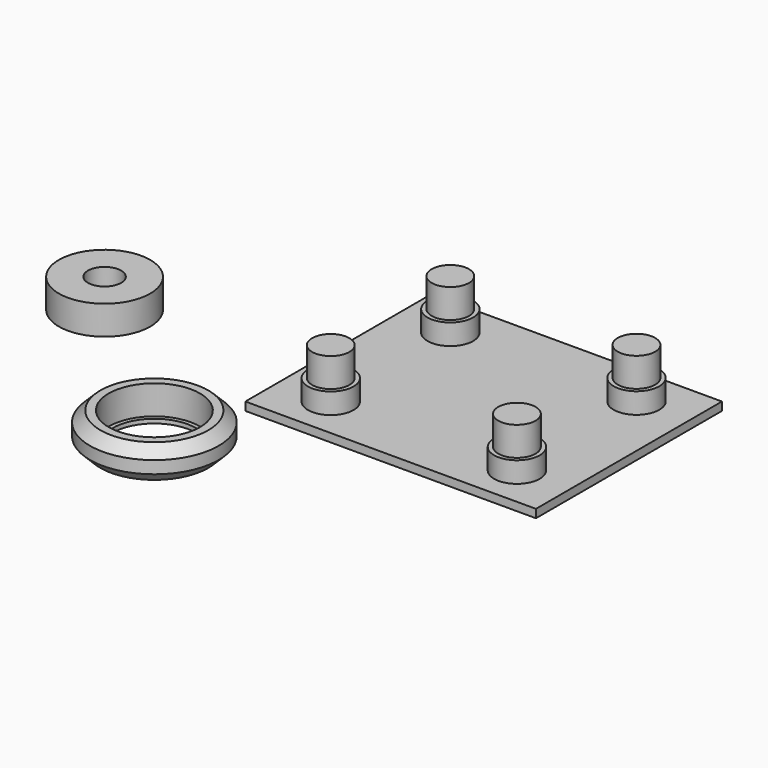
from build123d import *

# Parameters (mm, degrees)
F0_W     = 1
F0_H     = 1
F2_R     = 11
F2_R_2   = 4
F3_DEPTH = 7
F4_W     = 70
F4_H     = 56
F5_DEPTH = 2
F6_R     = 4.5
F7_DEPTH = 12
F6_R_2   = 5.5
F8_DEPTH = 5


with BuildPart() as f1:
    # F0 (on Right) → F1 (revolve)
    with BuildSketch(Plane.YZ):
        Polygon((0, 1), (0, 0), (2.005399, 0), (4.5, 2.494601), (4.5, 5.5), (2, 8), (0, 8), align=None)
        with Locations((-0.5, 0.5)):
            Rectangle(F0_W, F0_H)
    revolve(axis=Axis((0, -11, 2.9925), (0, 0, 1)))


with BuildPart() as f3:
    # F2 (on Top) → F3 (new body)
    with BuildSketch(Plane.XY):
        with Locations((-42.507384, 27.137408)):
            Circle(F2_R)
        with Locations((-42.507384, 27.137408)):
            Circle(F2_R_2, mode=Mode.SUBTRACT)
    extrude(amount=F3_DEPTH)


with BuildPart() as f5:
    # F4 (on Top) → F5 (new body)
    with BuildSketch(Plane.XY):
        with Locations((38.925769, 39.492126)):
            Rectangle(F4_W, F4_H)
    extrude(amount=F5_DEPTH)

    # F6 (on face) → F7 (join)
    with BuildSketch(Plane.XY.offset(2)):
        with Locations((61.348269, 21.492126)):
            Circle(F6_R)
        with Locations((16.503269, 21.492126)):
            Circle(F6_R)
        with Locations((16.503269, 57.492126)):
            Circle(F6_R)
        with Locations((61.348269, 57.492126)):
            Circle(F6_R)
    extrude(amount=F7_DEPTH)

    # F6 (on face) → F8 (join)
    with BuildSketch(Plane.XY.offset(2)):
        with Locations((61.348269, 21.492126)):
            Circle(F6_R_2)
        with Locations((61.348269, 21.492126)):
            Circle(F6_R, mode=Mode.SUBTRACT)
        with Locations((16.503269, 21.492126)):
            Circle(F6_R_2)
        with Locations((16.503269, 21.492126)):
            Circle(F6_R, mode=Mode.SUBTRACT)
        with Locations((61.348269, 57.492126)):
            Circle(F6_R_2)
        with Locations((61.348269, 57.492126)):
            Circle(F6_R, mode=Mode.SUBTRACT)
        with Locations((16.503269, 57.492126)):
            Circle(F6_R_2)
        with Locations((16.503269, 57.492126)):
            Circle(F6_R, mode=Mode.SUBTRACT)
    extrude(amount=F8_DEPTH)


solid = Compound([f1.part, f3.part, f5.part])
